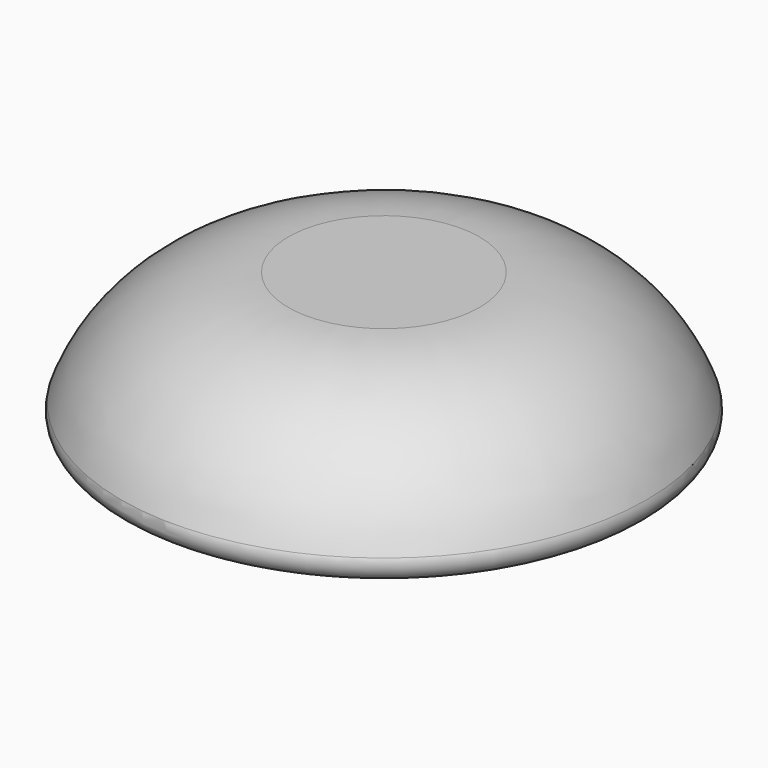
from build123d import *


with BuildPart() as f1:
    # F0 (on Front) → F1 (revolve)
    with BuildSketch(Plane.XZ):
        with BuildLine():
            Line((8, 0), (0, 0))
            Line((0, 0), (0, -11.626203))
            Line((0, -11.626203), (18.35013, -11.626203))
            Line((18.35013, -11.626203), (20.618645, -11.626203))
            ThreePointArc((20.618645, -11.626203), (21.83866, -10.984054), (22, -9.614835))
            ThreePointArc((22, -9.614835), (16.491835, -2.635182), (8, 0))
        make_face()
        with BuildLine():
            Line((18.35013, -11.626203), (0, -11.626203))
            Line((0, -11.626203), (0, -14.503099))
            Line((0, -14.503099), (14.260815, -14.503099))
            ThreePointArc((14.260815, -14.503099), (16.760766, -13.711821), (18.35013, -11.626203))
        make_face()
        with BuildLine():
            Line((14.260815, -14.503099), (0, -14.503099))
            Line((0, -14.503099), (0, -16.97485))
            ThreePointArc((0, -16.97485), (7.269413, -16.540968), (14.260815, -14.503099))
        make_face()
    revolve(axis=Axis((0, 0, -8.487425), (0, 0, -1)))


with BuildPart() as f2:
    # F0 (on Front) → F2 (revolve)
    with BuildSketch(Plane.XZ):
        with BuildLine():
            Line((8, 0), (0, 0))
            Line((0, 0), (0, -11.626203))
            Line((0, -11.626203), (18.35013, -11.626203))
            Line((18.35013, -11.626203), (20.618645, -11.626203))
            ThreePointArc((20.618645, -11.626203), (21.83866, -10.984054), (22, -9.614835))
            ThreePointArc((22, -9.614835), (16.491835, -2.635182), (8, 0))
        make_face()
        with BuildLine():
            Line((18.35013, -11.626203), (0, -11.626203))
            Line((0, -11.626203), (0, -14.503099))
            Line((0, -14.503099), (14.260815, -14.503099))
            ThreePointArc((14.260815, -14.503099), (16.760766, -13.711821), (18.35013, -11.626203))
        make_face()
        with BuildLine():
            Line((14.260815, -14.503099), (0, -14.503099))
            Line((0, -14.503099), (0, -16.97485))
            ThreePointArc((0, -16.97485), (7.269413, -16.540968), (14.260815, -14.503099))
        make_face()
    revolve(axis=Axis((0, 0, -8.487425), (0, 0, -1)))


solid = Compound([f1.part, f2.part])
